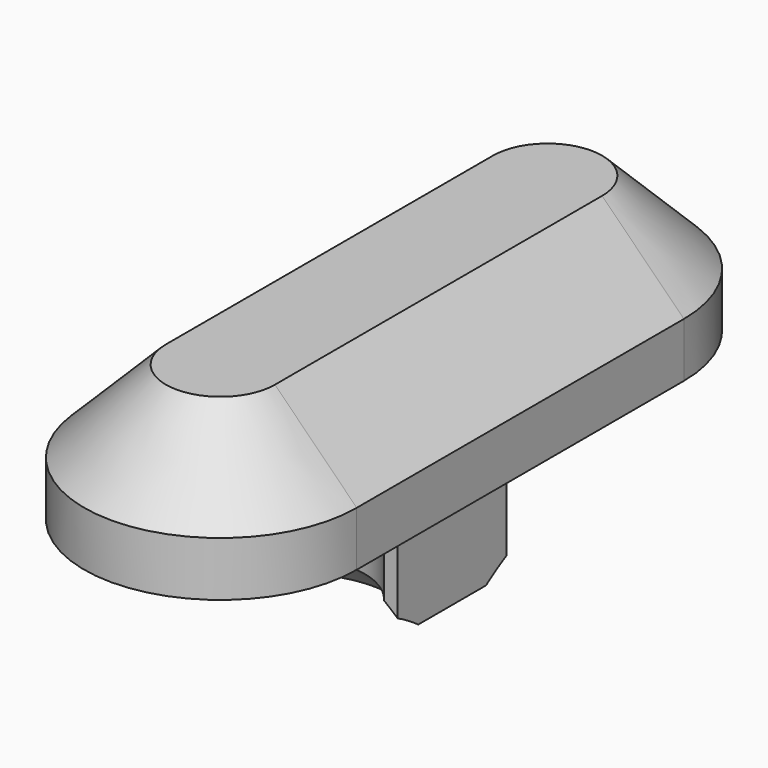
from build123d import *

# Parameters (mm, degrees)
PAD_DEPTH       = 5
PAD001_DEPTH    = 5
POCKET_DEPTH    = 5
SKETCH003_W     = 5
SKETCH003_H     = 1.5
POCKET001_DEPTH = 5
SKETCH004_R     = 2.5
POCKET002_DEPTH = 2
CHAMFER_SIZE    = 3
CHAMFER001_SIZE = 1


with BuildPart() as part:
    # Sketch → Pad (new body)
    with BuildSketch(Plane.XY):
        with BuildLine():
            ThreePointArc((2.5, 7.5), (0, 10), (-2.5, 7.5))
            Line((-2.5, 7.5), (-2.5, -7.5))
            ThreePointArc((-2.5, -7.5), (0, -10), (2.5, -7.5))
            Line((2.5, 7.5), (2.5, -7.5))
        make_face()
    extrude(amount=PAD_DEPTH)

    # Sketch001 (on Face6 of Pad) → Pad001 (join)
    with BuildSketch(Plane.XY.offset(5)):
        with BuildLine():
            ThreePointArc((5, 7.5), (0, 12.5), (-5, 7.5))
            Line((-5, 7.5), (-5, -7.5))
            ThreePointArc((-5, -7.5), (0, -12.5), (5, -7.5))
            Line((5, 7.5), (5, -7.5))
        make_face()
    extrude(amount=PAD001_DEPTH)

    # Sketch002 → Pocket (cut)
    with BuildSketch(Plane(origin=(0, 0, 0), x_dir=(1, 0, 0), z_dir=(0, 0, -1))):
        with BuildLine():
            ThreePointArc((2.5, 7.5), (0, 10), (-2.5, 7.5))
            Line((-2.5, 7.5), (-2.5, 4))
            ThreePointArc((-2.5, 4), (0, 1.5), (2.5, 4))
            Line((2.5, 7.5), (2.5, 4))
        make_face()
        with BuildLine():
            ThreePointArc((-2.5, -7.5), (0, -10), (2.5, -7.5))
            Line((2.5, -7.5), (2.5, -4))
            ThreePointArc((2.5, -4), (0, -1.5), (-2.5, -4))
            Line((-2.5, -7.5), (-2.5, -4))
        make_face()
    extrude(amount=-POCKET_DEPTH, mode=Mode.SUBTRACT)

    # Sketch003 (on Face10 of Pocket) → Pocket001 (cut)
    with BuildSketch(Plane(origin=(0, 0, 0), x_dir=(1, 0, 0), z_dir=(0, 0, -1))):
        with Locations((0, 3.25)):
            Rectangle(SKETCH003_W, SKETCH003_H)
    pocket001 = extrude(amount=-POCKET001_DEPTH, mode=Mode.SUBTRACT)

    # Mirrored: Pocket001 across XZ
    add(pocket001.mirror(Plane.XZ), mode=Mode.SUBTRACT)

    # Sketch004 (on Face6 of Mirrored) → Pocket002 (cut)
    with BuildSketch(Plane(origin=(0, 0, 5), x_dir=(1, 0, 0), z_dir=(0, 0, -1))):
        with Locations((0, -4)):
            Circle(SKETCH004_R)
        with Locations((0, 4)):
            Circle(SKETCH004_R)
    extrude(amount=-POCKET002_DEPTH, mode=Mode.SUBTRACT)

    # Chamfer
    chamfer_edges = [part.edges().sort_by_distance(p)[0] for p in [
        (0, -12.5, 10),
    ]]
    chamfer(chamfer_edges, length=CHAMFER_SIZE)

    # Chamfer001
    chamfer001_edges = [part.edges().sort_by_distance(p)[0] for p in [
        (0, -1.5, 0),
        (0, 1.5, 0),
    ]]
    chamfer(chamfer001_edges, length=CHAMFER001_SIZE)


solid = part.part
